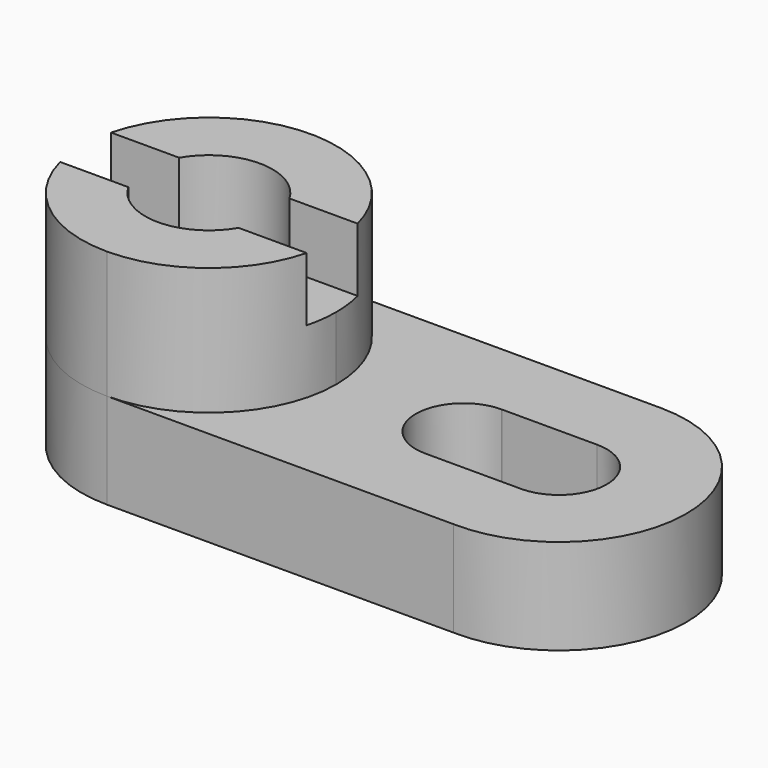
from build123d import *

# Parameters (mm, degrees)
F1_DEPTH = 15
F3_DEPTH = 20
F4_R     = 10
F5_DEPTH = 60.8
F7_DEPTH = 10
F9_DEPTH = 33.1


with BuildPart() as f1:
    # F0 (on Top) → F1 (new body)
    with BuildSketch(Plane.XY):
        with BuildLine():
            Line((-27.8139331382, 19.9841398605), (-26.2326190666, 19.9845893727))
            ThreePointArc((-26.2326190666, 19.9845893727), (-27.0232805468, 19.9999991919), (-27.8139331382, 19.9841398605))
        make_face()
        with BuildLine():
            Line((27.9767194532, 19.9999991919), (-26.2326190666, 19.9845893727))
            Line((-26.2326190666, 19.9845893727), (-27.8139331382, 19.9841398605))
            ThreePointArc((-27.8139331382, 19.9841398605), (-47.0135984526, -0.399819681), (-27.0144510727, -19.9999997529))
            Line((-27.0144510727, -19.9999997529), (27.397513264, -19.9914457192))
            ThreePointArc((27.397513264, -19.9914457192), (47.9803074375, -0.2896346714), (27.9767194532, 19.9999991919))
        make_face()
    extrude(amount=F1_DEPTH)

    # F2 (on face) → F3 (join)
    with BuildSketch(Plane.XY.offset(15)):
        with BuildLine():
            ThreePointArc((-27.0144510727, -19.9999997529), (-12.8743480331, -14.1410239467), (-7.0175952464, 0))
            ThreePointArc((-7.0175952464, 0), (-12.600599658, 13.8618266546), (-26.2326190666, 19.9845893727))
            ThreePointArc((-26.2326190666, 19.9845893727), (-47.0137730139, 0.3909919326), (-27.0144510727, -19.9999997529))
        make_face()
    extrude(amount=F3_DEPTH)

    # F4 (on face) → F5 (cut)
    with BuildSketch(Plane.XY.offset(35)):
        with Locations((-27.0175952464, 0)):
            Circle(F4_R)
    extrude(amount=-F5_DEPTH, mode=Mode.SUBTRACT)

    # F6 (on face) → F7 (cut)
    with BuildSketch(Plane.XY.offset(35)):
        with BuildLine():
            Line((-46.3825119775, 5), (-53.2571481913, 5))
            Line((-53.2571481913, 5), (-53.2571481913, -5))
            Line((-53.2571481913, -5), (-46.3825119775, -5))
            ThreePointArc((-46.3825119775, -5), (-47.0175952464, 0), (-46.3825119775, 5))
        make_face()
        with BuildLine():
            Line((6.7428518087, 5), (-7.6526785154, 5))
            ThreePointArc((-7.6526785154, 5), (-7.1770013211, 2.5200858497), (-7.0175952464, 0))
            ThreePointArc((-7.0175952464, 0), (-7.1770013211, -2.5200858497), (-7.6526785154, -5))
            Line((-7.6526785154, -5), (6.7428518087, -5))
            Line((6.7428518087, -5), (6.7428518087, 5))
        make_face()
        with BuildLine():
            Line((-35.6778492843, 5), (-46.3825119775, 5))
            ThreePointArc((-46.3825119775, 5), (-47.0175952464, 0), (-46.3825119775, -5))
            Line((-46.3825119775, -5), (-35.6778492843, -5))
            ThreePointArc((-35.6778492843, -5), (-37.0175952464, 0), (-35.6778492843, 5))
        make_face()
        with BuildLine():
            Line((-18.3573412086, 5), (-35.6778492843, 5))
            ThreePointArc((-35.6778492843, 5), (-37.0175952464, 0), (-35.6778492843, -5))
            Line((-35.6778492843, -5), (-18.3573412086, -5))
            ThreePointArc((-18.3573412086, -5), (-17.3583369835, -2.588190451), (-17.0175952464, 0))
            ThreePointArc((-17.0175952464, 0), (-17.3583369835, 2.588190451), (-18.3573412086, 5))
        make_face()
        with BuildLine():
            ThreePointArc((-7.0175952464, 0), (-7.1770013211, 2.5200858497), (-7.6526785154, 5))
            Line((-7.6526785154, 5), (-18.3573412086, 5))
            ThreePointArc((-18.3573412086, 5), (-17.3583369835, 2.588190451), (-17.0175952464, 0))
            ThreePointArc((-17.0175952464, 0), (-17.3583369835, -2.588190451), (-18.3573412086, -5))
            Line((-18.3573412086, -5), (-7.6526785154, -5))
            ThreePointArc((-7.6526785154, -5), (-7.1770013211, -2.5200858497), (-7.0175952464, 0))
        make_face()
    extrude(amount=-F7_DEPTH, mode=Mode.SUBTRACT)

    # F8 (on face) → F9 (cut)
    with BuildSketch(Plane.XY.offset(15)):
        with BuildLine():
            Line((28.2606767434, -7.4948358688), (27.7091998301, -7.4950222861))
            ThreePointArc((27.7091998301, -7.4950222861), (27.9849400007, -7.4999995715), (28.2606767434, -7.4948358688))
        make_face()
        with BuildLine():
            Line((12.9849400007, -7.4999995715), (27.7091998301, -7.4950222861))
            Line((27.7091998301, -7.4950222861), (28.2606767434, -7.4948358688))
            ThreePointArc((28.2606767434, -7.4948358688), (35.4811133003, 0.1391766201), (27.9823714109, 7.5))
            Line((27.9823714109, 7.5), (13.0139985431, 7.4999334552))
            ThreePointArc((13.0139985431, 7.4999334552), (12.9823714109, 7.4999999999), (12.9507442793, 7.499933174))
            ThreePointArc((12.9507442793, 7.499933174), (5.4824242428, -0.017097893), (12.9849400007, -7.4999995715))
        make_face()
    extrude(amount=-F9_DEPTH, mode=Mode.SUBTRACT)


solid = f1.part
